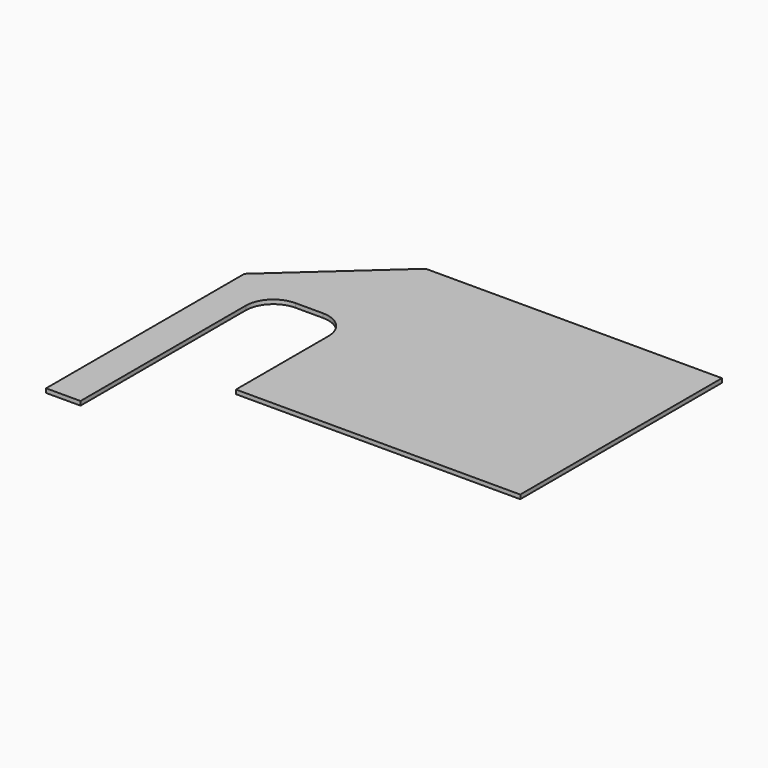
from build123d import *

# Parameters (mm, degrees)
F1_DEPTH = 3


with BuildPart() as f1:
    # F0 (on Top) → F1 (new body)
    with BuildSketch(Plane.XY):
        with BuildLine():
            Line((-34.152171, 123.5992), (-110.575682, 54.545258))
            Line((-110.575682, 54.545258), (-110.575682, -125.454742))
            Line((-110.575682, -125.454742), (-85.575682, -125.454742))
            Line((-85.575682, -125.454742), (-85.575682, 24.545258))
            ThreePointArc((-85.575682, 24.545258), (-79.717818, 38.687394), (-65.575682, 44.545258))
            Line((-65.575682, 44.545258), (-45.575682, 44.545258))
            ThreePointArc((-45.575682, 44.545258), (-31.433547, 38.687394), (-25.575682, 24.545258))
            Line((-25.575682, 24.545258), (-25.575682, -59.4008))
            Line((-25.575682, -59.4008), (180.847829, -59.4008))
            Line((180.847829, -59.4008), (180.847829, 123.5992))
            Line((180.847829, 123.5992), (-34.152171, 123.5992))
        make_face()
    extrude(amount=F1_DEPTH)


solid = f1.part
